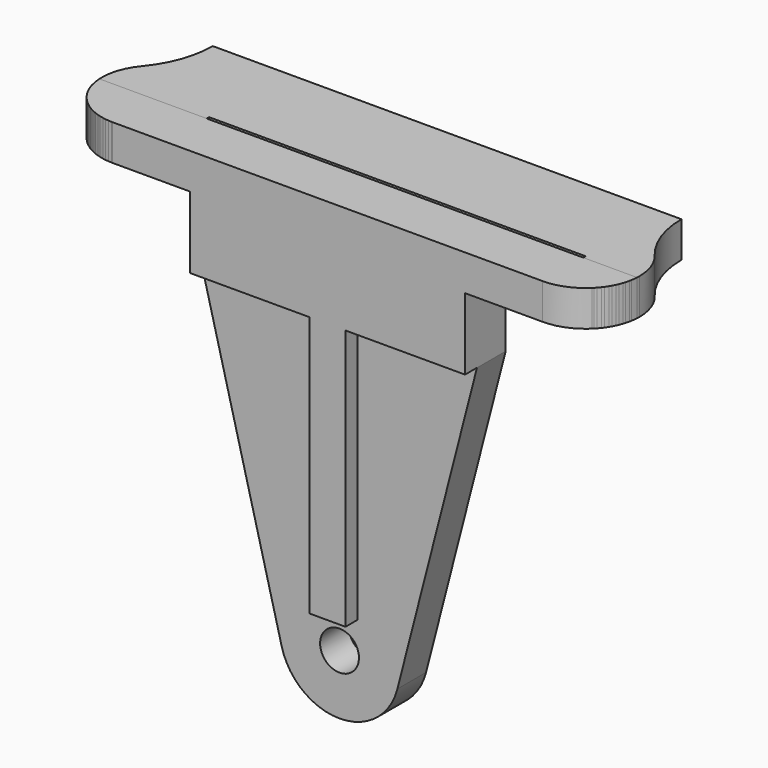
from build123d import *

# Parameters (mm, degrees)
F1_DEPTH = 3.96875
F0_R     = 5.159375
F2_DEPTH = 9.525
F4_DEPTH = 9.525
F8_DEPTH = 9.526


with BuildPart() as f1:
    # F0 (on Front) → F1 (new body)
    with BuildSketch(Plane.XZ):
        Polygon((-41.206286113, 42.2151100993), (-41.206286113, 23.1651100993), (-9.456286113, 23.1651100993), (-9.456286113, -46.1256168256), (0.068713887, -46.1256168256), (0.068713887, 23.1651100993), (31.818713887, 23.1651100993), (31.818713887, 42.2151100993), (52.456213887, 42.2151100993), (66.743713887, 42.2151100993), (66.743713887, 51.7401100993), (-76.131286113, 51.7401100993), (-76.131286113, 42.2151100993), (-61.843786113, 42.2151100993), align=None)
    extrude(amount=F1_DEPTH)


with BuildPart() as f2:
    # F0 (on Front) → F2 (new body)
    with BuildSketch(Plane.XZ):
        with BuildLine():
            Line((-9.456286113, 23.1651100993), (-41.206286113, 23.1651100993))
            Line((-41.206286113, 23.1651100993), (-20.0659731361, -58.8206391609))
            ThreePointArc((-20.0659731361, -58.8206391609), (-4.693786113, -70.7318668256), (10.6784009101, -58.8206391609))
            Line((10.6784009101, -58.8206391609), (31.818713887, 23.1651100993))
            Line((31.818713887, 23.1651100993), (0.068713887, 23.1651100993))
            Line((0.068713887, 23.1651100993), (0.068713887, -46.1256168256))
            Line((0.068713887, -46.1256168256), (-9.456286113, -46.1256168256))
            Line((-9.456286113, -46.1256168256), (-9.456286113, 23.1651100993))
        make_face()
        with Locations((-4.693786113, -54.8568668256)):
            Circle(F0_R, mode=Mode.SUBTRACT)
        Polygon((-41.206286113, 42.2151100993), (-41.206286113, 23.1651100993), (-9.456286113, 23.1651100993), (-9.456286113, -46.1256168256), (0.068713887, -46.1256168256), (0.068713887, 23.1651100993), (31.818713887, 23.1651100993), (31.818713887, 42.2151100993), (52.456213887, 42.2151100993), (66.743713887, 42.2151100993), (66.743713887, 51.7401100993), (-76.131286113, 51.7401100993), (-76.131286113, 42.2151100993), (-61.843786113, 42.2151100993), align=None)
    extrude(amount=-F2_DEPTH)


with BuildPart() as f4:
    # F3 (on face) → F4 (new body)
    with BuildSketch(Plane(origin=(0, 0, 42.2151100993), x_dir=(1, 0, 0), z_dir=(0, 0, -1))):
        with BuildLine():
            ThreePointArc((-61.843786113, -24.60625), (-51.7409979768, -20.4215381362), (-47.556286113, -10.31875))
            Line((-47.556286113, -10.31875), (-61.843786113, -10.31875))
            Line((-61.843786113, -10.31875), (-61.843786113, -24.60625))
        make_face()
        with BuildLine():
            Line((-66.9386652938, -35.71875), (-61.843786113, -35.71875))
            Line((-61.843786113, -35.71875), (-61.843786113, -24.60625))
            ThreePointArc((-61.843786113, -24.60625), (-67.9054589947, -23.2566315161), (-72.8219426181, -19.46275))
            ThreePointArc((-72.8219426181, -19.46275), (-68.4547297307, -27.0748144369), (-66.9386652938, -35.71875))
        make_face()
        with BuildLine():
            Line((-61.843786113, -35.71875), (-4.693786113, -35.71875))
            Line((-4.693786113, -35.71875), (-4.693786113, -10.31875))
            Line((-4.693786113, -10.31875), (-47.556286113, -10.31875))
            ThreePointArc((-47.556286113, -10.31875), (-51.7409979768, -20.4215381362), (-61.843786113, -24.60625))
            Line((-61.843786113, -24.60625), (-61.843786113, -35.71875))
        make_face()
        with BuildLine():
            Line((52.456213887, -35.71875), (52.456213887, -24.60625))
            ThreePointArc((52.456213887, -24.60625), (42.3534257508, -20.4215381362), (38.168713887, -10.31875))
            Line((38.168713887, -10.31875), (-4.693786113, -10.31875))
            Line((-4.693786113, -10.31875), (-4.693786113, -35.71875))
            Line((-4.693786113, -35.71875), (52.456213887, -35.71875))
        make_face()
        with BuildLine():
            ThreePointArc((57.5510930678, -35.71875), (59.0671575047, -27.0748144369), (63.4343703921, -19.46275))
            ThreePointArc((63.4343703921, -19.46275), (58.5178867687, -23.2566315161), (52.456213887, -24.60625))
            Line((52.456213887, -24.60625), (52.456213887, -35.71875))
            Line((52.456213887, -35.71875), (57.5510930678, -35.71875))
        make_face()
        with BuildLine():
            Line((-61.843786113, -10.31875), (-47.556286113, -10.31875))
            ThreePointArc((-47.556286113, -10.31875), (-66.7059998672, 3.1159637542), (-72.8219426181, -19.46275))
            ThreePointArc((-72.8219426181, -19.46275), (-67.9054589947, -23.2566315161), (-61.843786113, -24.60625))
            Line((-61.843786113, -24.60625), (-61.843786113, -10.31875))
        make_face()
        with BuildLine():
            ThreePointArc((52.456213887, -24.60625), (58.5178867687, -23.2566315161), (63.4343703921, -19.46275))
            ThreePointArc((63.4343703921, -19.46275), (65.8909276412, -15.1809637542), (66.743713887, -10.31875))
            ThreePointArc((66.743713887, -10.31875), (66.7381964091, -9.9217216775), (66.7216482368, -9.525))
            Line((66.7216482368, -9.525), (52.456213887, -9.525))
            Line((52.456213887, -9.525), (52.456213887, -10.31875))
            Line((52.456213887, -10.31875), (52.456213887, -24.60625))
        make_face()
        with BuildLine():
            Line((52.456213887, -9.525), (66.7216482368, -9.525))
            ThreePointArc((66.7216482368, -9.525), (65.4353261174, -4.3458694588), (62.3383216929, 0))
            Line((62.3383216929, 0), (42.5741060811, 0))
            ThreePointArc((42.5741060811, 0), (39.4771016566, -4.3458694588), (38.1907795372, -9.525))
            Line((38.1907795372, -9.525), (52.456213887, -9.525))
        make_face()
        with BuildLine():
            ThreePointArc((38.168713887, -10.31875), (42.3534257508, -20.4215381362), (52.456213887, -24.60625))
            Line((52.456213887, -24.60625), (52.456213887, -10.31875))
            Line((52.456213887, -10.31875), (38.168713887, -10.31875))
        make_face()
    extrude(amount=-F4_DEPTH)


with BuildPart() as f1_1:
    add(f1.part)

    # F5: union F2
    add(f2.part)

    # F7 (on face) + F6 (on face) → F8 (cut, through all)
    with BuildSketch(Plane(origin=(0, 0, 42.2151100993), x_dir=(1, 0, 0), z_dir=(0, 0, -1))):
        with BuildLine():
            Line((-76.131286113, -2.778125), (-76.131286113, -9.525))
            Line((-76.131286113, -9.525), (-76.1092204628, -9.525))
            ThreePointArc((-76.1092204628, -9.525), (-71.661931384, 0.0608781093), (-61.843786113, 3.96875))
            Line((-61.843786113, 3.96875), (-69.3655908108, 3.96875))
            Line((-69.3655908108, 3.96875), (-76.131286113, 3.96875))
            Line((-76.131286113, 3.96875), (-76.131286113, -2.778125))
        make_face()
    with BuildSketch(Plane(origin=(0, 0, 42.2151100993), x_dir=(1, 0, 0), z_dir=(0, 0, -1))):
        with BuildLine():
            Line((58.8548928499, 3.96875), (52.456213887, 3.96875))
            ThreePointArc((52.456213887, 3.96875), (62.274359158, 0.0608781093), (66.7216482368, -9.525))
            Line((66.7216482368, -9.525), (66.743713887, -9.525))
            Line((66.743713887, -9.525), (66.743713887, -2.778125))
            Line((66.743713887, -2.778125), (66.743713887, 3.96875))
            Line((66.743713887, 3.96875), (58.8548928499, 3.96875))
        make_face()
    extrude(amount=-F8_DEPTH, mode=Mode.SUBTRACT)


solid = Compound([f4.part, f1_1.part])
